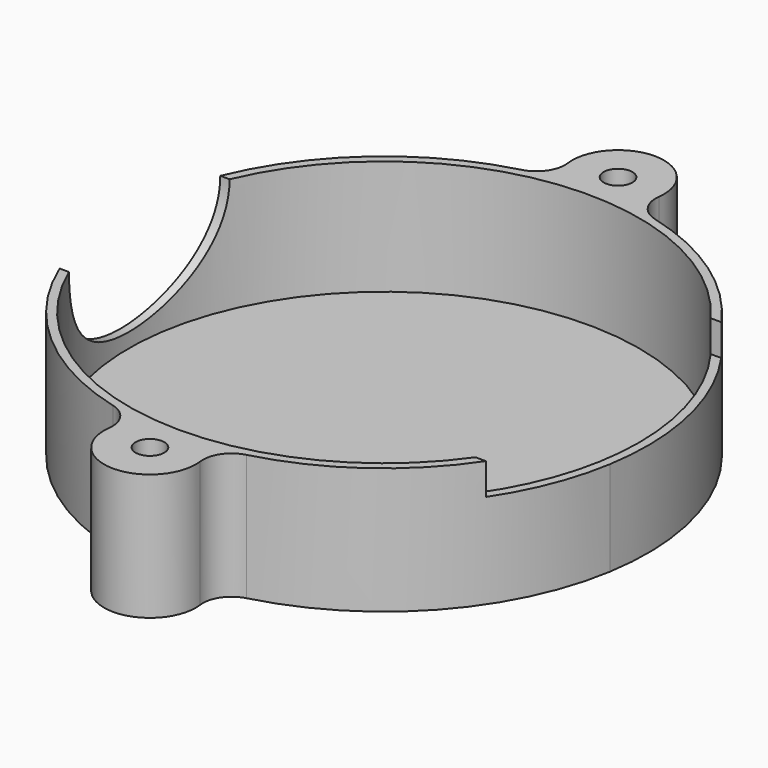
from build123d import *

# Parameters (mm, degrees)
F0_R     = 2.5
F1_DEPTH = 22
F3_W     = 52
F3_H     = 5.5
F4_DEPTH = 115.138352
F5_R     = 44.5
F6_DEPTH = 20
F2_R     = 17.5
F7_DEPTH = 60.93917
F8_R     = 5


with BuildPart() as f1:
    # F0 (on Top) → F1 (new body)
    with BuildSketch(Plane.XY):
        with BuildLine():
            Line((45.384134, -7.502026), (45.385261, -7.495206))
            ThreePointArc((45.385261, -7.495206), (36.922436, 27.435993), (5.918638, 45.617647))
            ThreePointArc((5.918638, 45.617647), (0, 59), (-5.918638, 45.617647))
            ThreePointArc((-5.918638, 45.617647), (-46, 0), (-5.918638, -45.617647))
            ThreePointArc((-5.918638, -45.617647), (0, -59), (5.918638, -45.617647))
            ThreePointArc((5.918638, -45.617647), (31.956122, -33.087857), (45.384134, -7.502026))
        make_face()
        with Locations((0, -51)):
            Circle(F0_R, mode=Mode.SUBTRACT)
        with Locations((0, 51)):
            Circle(F0_R, mode=Mode.SUBTRACT)
    extrude(amount=F1_DEPTH)

    # F3 (on Right) → F4 (cut)
    with BuildSketch(Plane.YZ):
        with Locations((0.416768, 19.25)):
            Rectangle(F3_W, F3_H)
    extrude(amount=F4_DEPTH, mode=Mode.SUBTRACT)

    # F5 (on face) → F6 (cut)
    with BuildSketch(Plane.XY.offset(22)):
        Circle(F5_R)
    extrude(amount=-F6_DEPTH, mode=Mode.SUBTRACT)

    # F2 (on Right) → F7 (cut)
    with BuildSketch(Plane.YZ):
        with Locations((0, 22)):
            Circle(F2_R)
    extrude(amount=-F7_DEPTH, mode=Mode.SUBTRACT)

    # F8
    f8_edges = [f1.edges().sort_by_distance(p)[0] for p in [
        (-5.918638, -45.617647, 11),
        (5.918638, -45.617647, 11),
        (5.918638, 45.617647, 11),
        (-5.918638, 45.617647, 11),
    ]]
    fillet(f8_edges, radius=F8_R)


solid = f1.part
